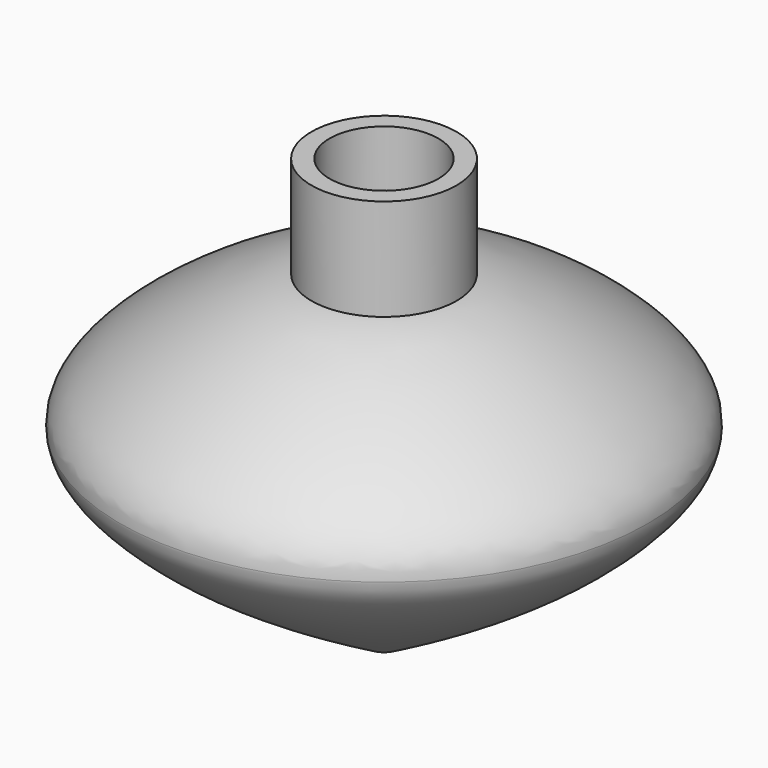
from build123d import *

# Parameters (mm, degrees)
F2_R     = 4.7625
F3_DEPTH = 9.525
F4_R     = 1.5875
F5_DEPTH = 22.225


with BuildPart() as f1:
    # F0 (on Front) → F1 (revolve)
    with BuildSketch(Plane.XZ):
        with BuildLine():
            Line((0, 38.1), (0, 0))
            add(Edge.make_bspline(
                [(0, 0), (11.7584649328, 6.6668250328), (19.7077058908, 11.7946774257), (23.020163798, 16.3133065778), (23.0828764178, 17.4960782864)],
                knots=[0, 0, 0, 0, 0.4304974224, 0.5620722598, 0.5620722598, 0.5620722598, 0.5620722598], degree=3))
            add(Edge.make_bspline(
                [(23.0828764178, 17.4960782864), (23.114800057, 18.0981640784), (22.1160167846, 22.2466526855), (10.6358158862, 28.6732271947), (6.35, 29.21)],
                knots=[0.5620722598, 0.5620722598, 0.5620722598, 0.5620722598, 0.6290499695, 1, 1, 1, 1], degree=3))
            Line((6.35, 29.21), (6.35, 38.1))
            Line((6.35, 38.1), (0, 38.1))
        make_face()
    revolve(axis=Axis((0, 0, 19.05), (0, 0, -1)))

    # F2 (on face) → F3 (cut)
    with BuildSketch(Plane.XY.offset(38.1)):
        Circle(F2_R)
    extrude(amount=-F3_DEPTH, mode=Mode.SUBTRACT)

    # F4 (on Top) → F5 (cut)
    with BuildSketch(Plane.XY):
        Circle(F4_R)
    extrude(amount=F5_DEPTH, mode=Mode.SUBTRACT)


solid = f1.part
